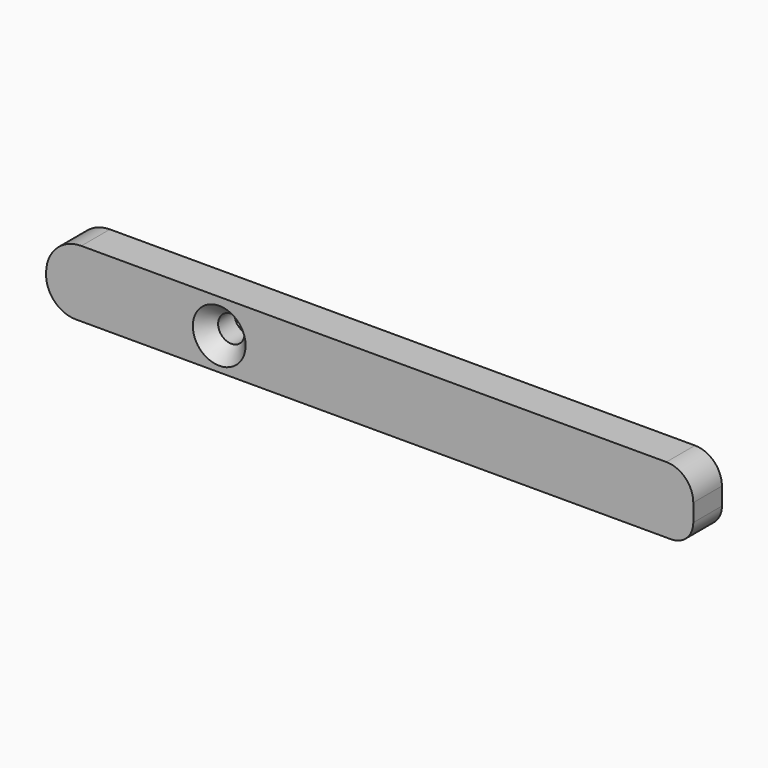
from build123d import *

# Parameters (mm, degrees)
F1_DEPTH       = 9.144
F3_D           = 6.7564
F3_CSINK_D     = 13.4874
F3_CSINK_ANGLE = 82


with BuildPart() as f1:
    # F0 (on Front) → F1 (new body)
    with BuildSketch(Plane.XZ):
        with BuildLine():
            Line((102.3467471009, 42.9624207318), (-47.1255183204, 42.9624207318))
            ThreePointArc((-47.1255183204, 42.9624207318), (-53.4942258671, 40.3244156912), (-56.1322309077, 33.9557081445))
            Line((-56.1322309077, 33.9557081445), (-56.1322309077, 33.542809715))
            ThreePointArc((-56.1322309077, 33.542809715), (-53.9140346712, 28.1876102769), (-48.5588352331, 25.9694140404))
            Line((-48.5588352331, 25.9694140404), (103.6197527466, 25.9694140404))
            ThreePointArc((103.6197527466, 25.9694140404), (107.586999827, 27.6127015865), (109.2302873731, 31.5799486669))
            Line((109.2302873731, 31.5799486669), (109.2302873731, 36.0788804597))
            ThreePointArc((109.2302873731, 36.0788804597), (107.2141451059, 40.9462784646), (102.3467471009, 42.9624207318))
        make_face()
    extrude(amount=F1_DEPTH)

    # F3 (through all)
    with Locations(Plane.XZ.offset(9.144)):
        with Locations((-11.8938069791, 34.2031158507)):
            CounterSinkHole(F3_D / 2, F3_CSINK_D / 2, counter_sink_angle=F3_CSINK_ANGLE)


solid = f1.part
